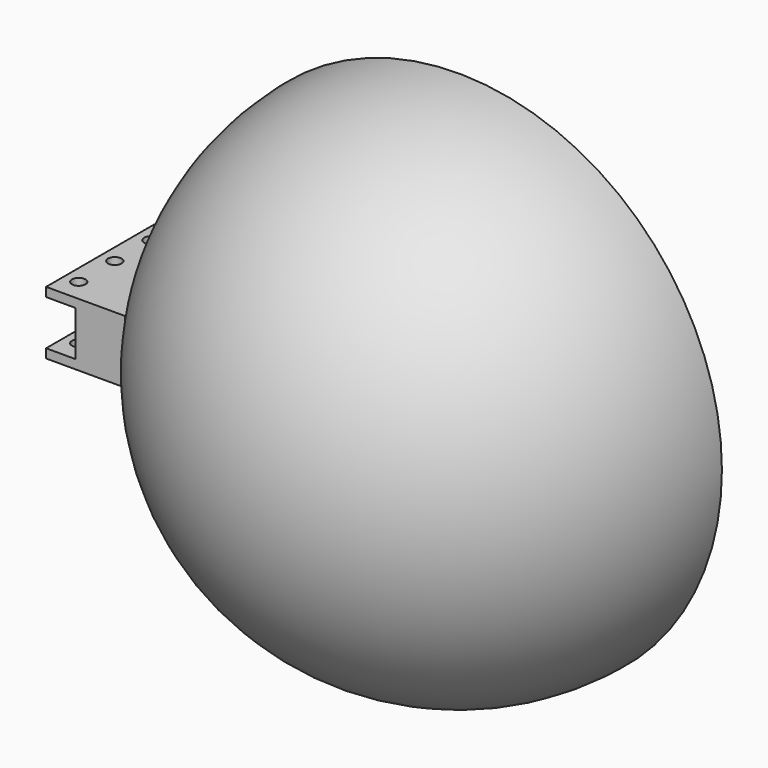
from build123d import *

# Parameters (mm, degrees)
REVOLUTION_ANGLE = 180
PAD_DEPTH        = 60
SKETCH002_R      = 3
HOLE_DEPTH       = 131.001
PAD001_DEPTH     = 1.6


with BuildPart() as part:
    # Sketch → Revolution (revolve)
    with BuildSketch(Plane.XZ):
        with BuildLine():
            ThreePointArc((117, 0), (0, 117), (-117, 0))
            Line((-117, 0), (-113, 0))
            ThreePointArc((113, 0), (0, 113), (-113, 0))
            Line((113, 0), (117, 0))
        make_face()
    revolve(axis=Axis((0, 0, 0), (1, 0, 0)), revolution_arc=REVOLUTION_ANGLE)

    # Sketch001 → Pad (new body)
    with BuildSketch(Plane.XZ):
        Polygon((-100, 14), (-100, -14), (-135, -14), (-135, -10), (-122, -10), (-122, 10), (-135, 10), (-135, 14), align=None)
    extrude(amount=PAD_DEPTH)

    # Sketch002 (on Face3 of Pad) → Hole (cut, through all)
    with BuildSketch(Plane(origin=(0, 0, 14), x_dir=(-1, 0, 0), z_dir=(0, 0, 1))):
        with Locations((128.5, 10)):
            Circle(SKETCH002_R)
        with Locations((128.5, 30)):
            Circle(SKETCH002_R)
        with Locations((128.5, 50)):
            Circle(SKETCH002_R)
    extrude(amount=-HOLE_DEPTH, mode=Mode.SUBTRACT)

    # Sketch003 → Pad001 (join)
    with BuildSketch(Plane(origin=(0, 0, 0), x_dir=(1, 0, 0), z_dir=(0, 1, 0))):
        with BuildLine():
            ThreePointArc((-87.124586, -74.345171), (-80.386247, -81.584001), (-73.048555, -88.214548))
            Line((-7.578152, -20.730836), (-73.048555, -88.214548))
            Line((-22.124763, -8.701903), (-7.578152, -20.730836))
            Line((-87.124586, -74.345171), (-22.124763, -8.701903))
        make_face()
        with BuildLine():
            Line((-83.392932, 78.508068), (-21.565299, 11.439582))
            Line((-21.565299, 11.439582), (-9.256599, 22.06979))
            Line((-9.256599, 22.06979), (-71.022068, 89.854125))
            ThreePointArc((-71.022068, 89.854125), (-77.41564, 84.408036), (-83.392932, 78.508068))
        make_face()
        with BuildLine():
            Line((69.065471, 91.366617), (8.92667, 22.06979))
            Line((8.92667, 22.06979), (20.955595, 10.320597))
            Line((20.955595, 10.320597), (81.129513, 80.844913))
            ThreePointArc((81.129513, 80.844913), (75.281537, 86.316789), (69.065471, 91.366617))
        make_face()
        with BuildLine():
            Line((64.925001, -94.353813), (7.527937, -21.849806))
            Line((7.527937, -21.849806), (20.955578, -8.701903))
            Line((20.955578, -8.701903), (80.699204, -81.274451))
            ThreePointArc((64.925001, -94.353813), (73.105196, -88.167614), (80.699204, -81.274451))
        make_face()
    extrude(amount=-PAD001_DEPTH)


solid = part.part
